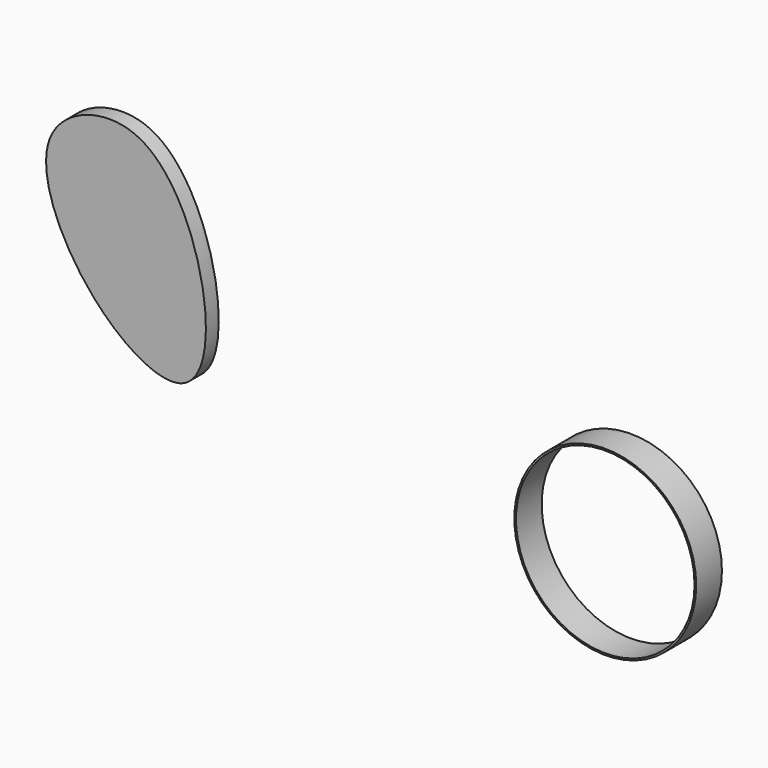
from build123d import *

# Parameters (mm, degrees)
F0_R     = 21.5856551854
F0_R_2   = 21.1844233837
F1_DEPTH = 7.62
F3_DEPTH = 3.81


with BuildPart() as f1:
    # F0 (on Front) → F1 (new body)
    with BuildSketch(Plane.XZ):
        Circle(F0_R)
        Circle(F0_R_2, mode=Mode.SUBTRACT)
    extrude(amount=F1_DEPTH)


with BuildPart() as f3:
    # F2 (on Front) → F3 (new body)
    with BuildSketch(Plane.XZ):
        with BuildLine():
            add(Edge.make_bspline(
                [(-124.3636161089, 11.0266618431), (-132.5674827077, 20.310470601), (-143.2024234364, 44.5052323538), (-109.1272328874, 55.8077913823), (-94.7265261769, 17.515578088), (-101.2494682316, -6.063682356), (-117.3739396332, 3.1168769997), (-124.3636161089, 11.0266618431)],
                knots=[0, 0, 0, 0, 0.2251010638, 0.4072231348, 0.643626366, 0.8082143839, 1, 1, 1, 1], degree=3))
        make_face()
    extrude(amount=F3_DEPTH)


solid = Compound([f1.part, f3.part])
